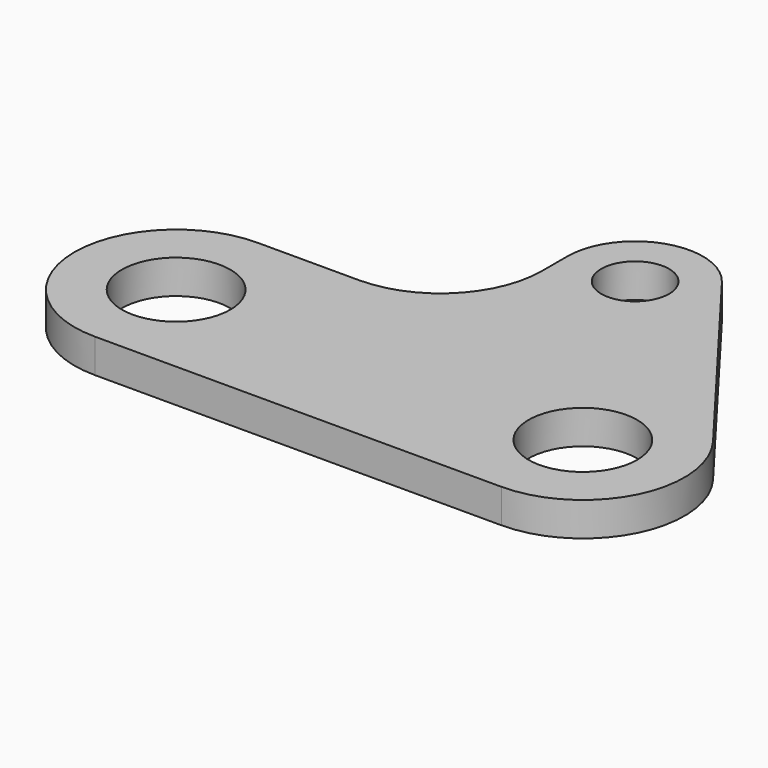
from build123d import *

# Parameters (mm, degrees)
F0_R     = 8
F0_R_2   = 5
F1_DEPTH = 5


with BuildPart() as f1:
    # F0 (on Top) → F1 (new body)
    with BuildSketch(Plane.XY):
        with BuildLine():
            Line((15, 15), (0, 15))
            ThreePointArc((0, 15), (-15, 0), (0, -15))
            Line((0, -15), (60, -15))
            ThreePointArc((60, -15), (73.434556, -6.671784), (71.950994, 9.064973))
            Line((71.950994, 9.064973), (47.967329, 40.684332))
            ThreePointArc((47.967329, 40.684332), (36.811999, 44.119236), (30, 34.641016))
            Line((30, 34.641016), (30, 30))
            ThreePointArc((30, 30), (25.606602, 19.393398), (15, 15))
        make_face()
        Circle(F0_R, mode=Mode.SUBTRACT)
        with Locations((60, 0)):
            Circle(F0_R, mode=Mode.SUBTRACT)
        with Locations((40, 34.641016)):
            Circle(F0_R_2, mode=Mode.SUBTRACT)
    extrude(amount=F1_DEPTH)


solid = f1.part
